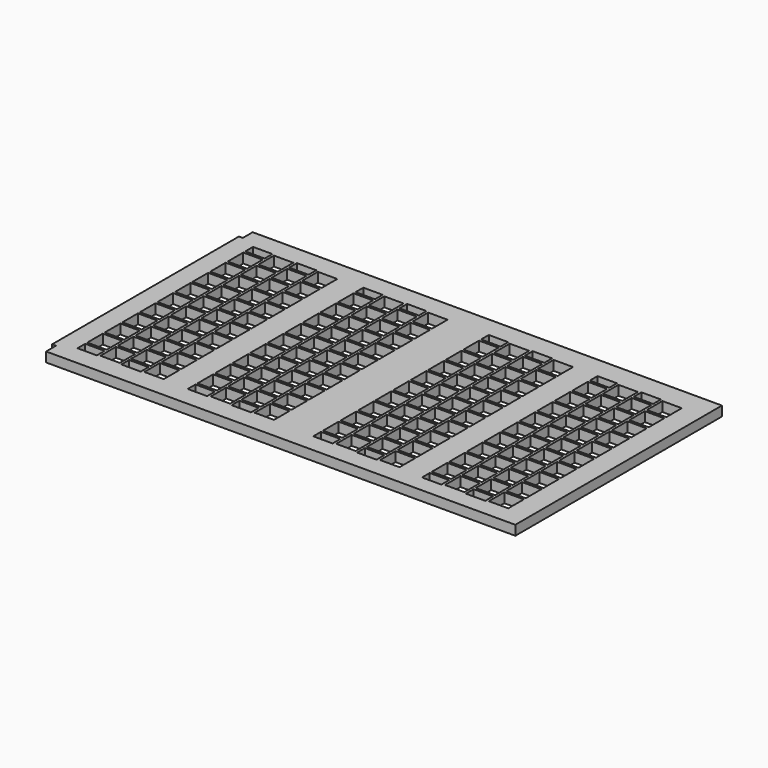
from build123d import *

# Parameters (mm, degrees)
F0_W     = 50
F0_H     = 25
F0_H_2   = 50
F1_DEPTH = 25
F2_DEPTH = 25


with BuildPart() as f1:
    # F0 (on Top) → F1 (new body)
    with BuildSketch(Plane.XY):
        Polygon((-653.877883, 275.877323), (-1863.877883, 275.877323), (-1863.877883, 243.877323), (-1873.877883, 243.877323), (-1873.877883, -358.122677), (-1863.877883, -358.122677), (-1863.877883, -390.122677), (-653.877883, -390.122677), align=None)
        with Locations((-1798.325085, -327.204223)):
            Rectangle(F0_W, F0_H, mode=Mode.SUBTRACT)
        with Locations((-1741.725085, -311.404223)):
            Rectangle(F0_W, F0_H_2, mode=Mode.SUBTRACT)
        with Locations((-1685.125085, -327.204223)):
            Rectangle(F0_W, F0_H, mode=Mode.SUBTRACT)
        with Locations((-1628.525085, -311.404223)):
            Rectangle(F0_W, F0_H_2, mode=Mode.SUBTRACT)
        with Locations((-1798.325085, -283.104223)):
            Rectangle(F0_W, F0_H_2, mode=Mode.SUBTRACT)
        with Locations((-1798.325085, -226.504223)):
            Rectangle(F0_W, F0_H_2, mode=Mode.SUBTRACT)
        with Locations((-1741.725085, -254.804223)):
            Rectangle(F0_W, F0_H_2, mode=Mode.SUBTRACT)
        with Locations((-1685.125085, -283.104223)):
            Rectangle(F0_W, F0_H_2, mode=Mode.SUBTRACT)
        with Locations((-1685.125085, -226.504223)):
            Rectangle(F0_W, F0_H_2, mode=Mode.SUBTRACT)
        with Locations((-1628.525085, -254.804223)):
            Rectangle(F0_W, F0_H_2, mode=Mode.SUBTRACT)
        with Locations((-1513.902973, -327.204223)):
            Rectangle(F0_W, F0_H, mode=Mode.SUBTRACT)
        with Locations((-1457.302973, -311.404223)):
            Rectangle(F0_W, F0_H_2, mode=Mode.SUBTRACT)
        with Locations((-1400.702973, -327.204223)):
            Rectangle(F0_W, F0_H, mode=Mode.SUBTRACT)
        with Locations((-1344.102973, -311.404223)):
            Rectangle(F0_W, F0_H_2, mode=Mode.SUBTRACT)
        with Locations((-1513.902973, -283.104223)):
            Rectangle(F0_W, F0_H_2, mode=Mode.SUBTRACT)
        with Locations((-1513.902973, -226.504223)):
            Rectangle(F0_W, F0_H_2, mode=Mode.SUBTRACT)
        with Locations((-1457.302973, -254.804223)):
            Rectangle(F0_W, F0_H_2, mode=Mode.SUBTRACT)
        with Locations((-1400.702973, -283.104223)):
            Rectangle(F0_W, F0_H_2, mode=Mode.SUBTRACT)
        with Locations((-1344.102973, -254.804223)):
            Rectangle(F0_W, F0_H_2, mode=Mode.SUBTRACT)
        with Locations((-1400.702973, -226.504223)):
            Rectangle(F0_W, F0_H_2, mode=Mode.SUBTRACT)
        with Locations((-1741.725085, -198.204223)):
            Rectangle(F0_W, F0_H_2, mode=Mode.SUBTRACT)
        with Locations((-1798.325085, -169.904223)):
            Rectangle(F0_W, F0_H_2, mode=Mode.SUBTRACT)
        with Locations((-1741.725085, -141.604223)):
            Rectangle(F0_W, F0_H_2, mode=Mode.SUBTRACT)
        with Locations((-1628.525085, -198.204223)):
            Rectangle(F0_W, F0_H_2, mode=Mode.SUBTRACT)
        with Locations((-1685.125085, -169.904223)):
            Rectangle(F0_W, F0_H_2, mode=Mode.SUBTRACT)
        with Locations((-1628.525085, -141.604223)):
            Rectangle(F0_W, F0_H_2, mode=Mode.SUBTRACT)
        with Locations((-1798.325085, -113.304223)):
            Rectangle(F0_W, F0_H_2, mode=Mode.SUBTRACT)
        with Locations((-1741.725085, -85.004223)):
            Rectangle(F0_W, F0_H_2, mode=Mode.SUBTRACT)
        with Locations((-1685.125085, -113.304223)):
            Rectangle(F0_W, F0_H_2, mode=Mode.SUBTRACT)
        with Locations((-1628.525085, -85.004223)):
            Rectangle(F0_W, F0_H_2, mode=Mode.SUBTRACT)
        with Locations((-1457.302973, -198.204223)):
            Rectangle(F0_W, F0_H_2, mode=Mode.SUBTRACT)
        with Locations((-1513.902973, -169.904223)):
            Rectangle(F0_W, F0_H_2, mode=Mode.SUBTRACT)
        with Locations((-1457.302973, -141.604223)):
            Rectangle(F0_W, F0_H_2, mode=Mode.SUBTRACT)
        with Locations((-1344.102973, -198.204223)):
            Rectangle(F0_W, F0_H_2, mode=Mode.SUBTRACT)
        with Locations((-1400.702973, -169.904223)):
            Rectangle(F0_W, F0_H_2, mode=Mode.SUBTRACT)
        with Locations((-1344.102973, -141.604223)):
            Rectangle(F0_W, F0_H_2, mode=Mode.SUBTRACT)
        with Locations((-1513.902973, -113.304223)):
            Rectangle(F0_W, F0_H_2, mode=Mode.SUBTRACT)
        with Locations((-1457.302973, -85.004223)):
            Rectangle(F0_W, F0_H_2, mode=Mode.SUBTRACT)
        with Locations((-1400.702973, -113.304223)):
            Rectangle(F0_W, F0_H_2, mode=Mode.SUBTRACT)
        with Locations((-1344.102973, -85.004223)):
            Rectangle(F0_W, F0_H_2, mode=Mode.SUBTRACT)
        with Locations((-1187.688689, -330.504216)):
            Rectangle(F0_W, F0_H, mode=Mode.SUBTRACT)
        with Locations((-1131.088689, -314.704216)):
            Rectangle(F0_W, F0_H_2, mode=Mode.SUBTRACT)
        with Locations((-1074.488689, -330.504216)):
            Rectangle(F0_W, F0_H, mode=Mode.SUBTRACT)
        with Locations((-1017.888689, -314.704216)):
            Rectangle(F0_W, F0_H_2, mode=Mode.SUBTRACT)
        with Locations((-1187.688689, -286.404216)):
            Rectangle(F0_W, F0_H_2, mode=Mode.SUBTRACT)
        with Locations((-1187.688689, -229.804216)):
            Rectangle(F0_W, F0_H_2, mode=Mode.SUBTRACT)
        with Locations((-1131.088689, -258.104216)):
            Rectangle(F0_W, F0_H_2, mode=Mode.SUBTRACT)
        with Locations((-1074.488689, -286.404216)):
            Rectangle(F0_W, F0_H_2, mode=Mode.SUBTRACT)
        with Locations((-1074.488689, -229.804216)):
            Rectangle(F0_W, F0_H_2, mode=Mode.SUBTRACT)
        with Locations((-1017.888689, -258.104216)):
            Rectangle(F0_W, F0_H_2, mode=Mode.SUBTRACT)
        with Locations((-904.594402, -333.804078)):
            Rectangle(F0_W, F0_H, mode=Mode.SUBTRACT)
        with Locations((-847.994402, -318.004078)):
            Rectangle(F0_W, F0_H_2, mode=Mode.SUBTRACT)
        with Locations((-791.394402, -333.804078)):
            Rectangle(F0_W, F0_H, mode=Mode.SUBTRACT)
        with Locations((-734.794402, -318.004078)):
            Rectangle(F0_W, F0_H_2, mode=Mode.SUBTRACT)
        with Locations((-904.594402, -289.704078)):
            Rectangle(F0_W, F0_H_2, mode=Mode.SUBTRACT)
        with Locations((-904.594402, -233.104078)):
            Rectangle(F0_W, F0_H_2, mode=Mode.SUBTRACT)
        with Locations((-847.994402, -261.404078)):
            Rectangle(F0_W, F0_H_2, mode=Mode.SUBTRACT)
        with Locations((-791.394402, -289.704078)):
            Rectangle(F0_W, F0_H_2, mode=Mode.SUBTRACT)
        with Locations((-734.794402, -261.404078)):
            Rectangle(F0_W, F0_H_2, mode=Mode.SUBTRACT)
        with Locations((-791.394402, -233.104078)):
            Rectangle(F0_W, F0_H_2, mode=Mode.SUBTRACT)
        with Locations((-1131.088689, -201.504216)):
            Rectangle(F0_W, F0_H_2, mode=Mode.SUBTRACT)
        with Locations((-1187.688689, -173.204216)):
            Rectangle(F0_W, F0_H_2, mode=Mode.SUBTRACT)
        with Locations((-1131.088689, -144.904216)):
            Rectangle(F0_W, F0_H_2, mode=Mode.SUBTRACT)
        with Locations((-1017.888689, -201.504216)):
            Rectangle(F0_W, F0_H_2, mode=Mode.SUBTRACT)
        with Locations((-1074.488689, -173.204216)):
            Rectangle(F0_W, F0_H_2, mode=Mode.SUBTRACT)
        with Locations((-1017.888689, -144.904216)):
            Rectangle(F0_W, F0_H_2, mode=Mode.SUBTRACT)
        with Locations((-1187.688689, -116.604216)):
            Rectangle(F0_W, F0_H_2, mode=Mode.SUBTRACT)
        Polygon((-1212.688689, -85.004216), (-1212.688689, -60.004216), (-1212.688689, -35.004216), (-1162.688689, -35.004216), (-1162.688689, -60.004216), (-1162.688689, -85.004216), align=None, mode=Mode.SUBTRACT)
        with Locations((-1131.088689, -88.304216)):
            Rectangle(F0_W, F0_H_2, mode=Mode.SUBTRACT)
        with Locations((-1074.488689, -116.604216)):
            Rectangle(F0_W, F0_H_2, mode=Mode.SUBTRACT)
        Polygon((-1099.488689, -85.004216), (-1099.488689, -60.004216), (-1099.488689, -35.004216), (-1049.488689, -35.004216), (-1049.488689, -60.004216), (-1049.488689, -85.004216), align=None, mode=Mode.SUBTRACT)
        with Locations((-1017.888689, -88.304216)):
            Rectangle(F0_W, F0_H_2, mode=Mode.SUBTRACT)
        with Locations((-847.994402, -204.804078)):
            Rectangle(F0_W, F0_H_2, mode=Mode.SUBTRACT)
        with Locations((-904.594402, -176.504078)):
            Rectangle(F0_W, F0_H_2, mode=Mode.SUBTRACT)
        with Locations((-847.994402, -148.204078)):
            Rectangle(F0_W, F0_H_2, mode=Mode.SUBTRACT)
        with Locations((-734.794402, -204.804078)):
            Rectangle(F0_W, F0_H_2, mode=Mode.SUBTRACT)
        with Locations((-791.394402, -176.504078)):
            Rectangle(F0_W, F0_H_2, mode=Mode.SUBTRACT)
        with Locations((-734.794402, -148.204078)):
            Rectangle(F0_W, F0_H_2, mode=Mode.SUBTRACT)
        with Locations((-904.594402, -119.904078)):
            Rectangle(F0_W, F0_H_2, mode=Mode.SUBTRACT)
        Polygon((-929.594402, -88.304078), (-929.594402, -63.304078), (-929.594402, -38.304078), (-879.594402, -38.304078), (-879.594402, -63.304078), (-879.594402, -88.304078), align=None, mode=Mode.SUBTRACT)
        with Locations((-847.994402, -91.604078)):
            Rectangle(F0_W, F0_H_2, mode=Mode.SUBTRACT)
        with Locations((-791.394402, -119.904078)):
            Rectangle(F0_W, F0_H_2, mode=Mode.SUBTRACT)
        with Locations((-734.794402, -91.604078)):
            Rectangle(F0_W, F0_H_2, mode=Mode.SUBTRACT)
        Polygon((-816.394402, -88.304078), (-816.394402, -63.304078), (-816.394402, -38.304078), (-766.394402, -38.304078), (-766.394402, -63.304078), (-766.394402, -88.304078), align=None, mode=Mode.SUBTRACT)
        Polygon((-1823.325085, -81.704223), (-1823.325085, -56.704223), (-1823.325085, -31.704223), (-1773.325085, -31.704223), (-1773.325085, -56.704223), (-1773.325085, -81.704223), align=None, mode=Mode.SUBTRACT)
        with Locations((-1741.725085, -28.404223)):
            Rectangle(F0_W, F0_H_2, mode=Mode.SUBTRACT)
        with Locations((-1798.325085, -0.104223)):
            Rectangle(F0_W, F0_H_2, mode=Mode.SUBTRACT)
        Polygon((-1710.125085, -81.704223), (-1710.125085, -56.704223), (-1710.125085, -31.704223), (-1660.125085, -31.704223), (-1660.125085, -56.704223), (-1660.125085, -81.704223), align=None, mode=Mode.SUBTRACT)
        with Locations((-1628.525085, -28.404223)):
            Rectangle(F0_W, F0_H_2, mode=Mode.SUBTRACT)
        with Locations((-1685.125085, -0.104223)):
            Rectangle(F0_W, F0_H_2, mode=Mode.SUBTRACT)
        with Locations((-1798.325085, 56.495777)):
            Rectangle(F0_W, F0_H_2, mode=Mode.SUBTRACT)
        with Locations((-1741.725085, 28.195777)):
            Rectangle(F0_W, F0_H_2, mode=Mode.SUBTRACT)
        with Locations((-1741.725085, 84.795777)):
            Rectangle(F0_W, F0_H_2, mode=Mode.SUBTRACT)
        with Locations((-1685.125085, 56.495777)):
            Rectangle(F0_W, F0_H_2, mode=Mode.SUBTRACT)
        with Locations((-1628.525085, 28.195777)):
            Rectangle(F0_W, F0_H_2, mode=Mode.SUBTRACT)
        with Locations((-1628.525085, 84.795777)):
            Rectangle(F0_W, F0_H_2, mode=Mode.SUBTRACT)
        Polygon((-1538.902973, -81.704223), (-1538.902973, -56.704223), (-1538.902973, -31.704223), (-1488.902973, -31.704223), (-1488.902973, -56.704223), (-1488.902973, -81.704223), align=None, mode=Mode.SUBTRACT)
        with Locations((-1457.302973, -28.404223)):
            Rectangle(F0_W, F0_H_2, mode=Mode.SUBTRACT)
        with Locations((-1513.902973, -0.104223)):
            Rectangle(F0_W, F0_H_2, mode=Mode.SUBTRACT)
        Polygon((-1425.702973, -81.704223), (-1425.702973, -56.704223), (-1425.702973, -31.704223), (-1375.702973, -31.704223), (-1375.702973, -56.704223), (-1375.702973, -81.704223), align=None, mode=Mode.SUBTRACT)
        with Locations((-1344.102973, -28.404223)):
            Rectangle(F0_W, F0_H_2, mode=Mode.SUBTRACT)
        with Locations((-1400.702973, -0.104223)):
            Rectangle(F0_W, F0_H_2, mode=Mode.SUBTRACT)
        with Locations((-1513.902973, 56.495777)):
            Rectangle(F0_W, F0_H_2, mode=Mode.SUBTRACT)
        with Locations((-1457.302973, 28.195777)):
            Rectangle(F0_W, F0_H_2, mode=Mode.SUBTRACT)
        with Locations((-1457.302973, 84.795777)):
            Rectangle(F0_W, F0_H_2, mode=Mode.SUBTRACT)
        with Locations((-1344.102973, 28.195777)):
            Rectangle(F0_W, F0_H_2, mode=Mode.SUBTRACT)
        with Locations((-1400.702973, 56.495777)):
            Rectangle(F0_W, F0_H_2, mode=Mode.SUBTRACT)
        with Locations((-1344.102973, 84.795777)):
            Rectangle(F0_W, F0_H_2, mode=Mode.SUBTRACT)
        with Locations((-1798.325085, 113.095777)):
            Rectangle(F0_W, F0_H_2, mode=Mode.SUBTRACT)
        with Locations((-1741.725085, 141.395777)):
            Rectangle(F0_W, F0_H_2, mode=Mode.SUBTRACT)
        with Locations((-1798.325085, 169.695777)):
            Rectangle(F0_W, F0_H_2, mode=Mode.SUBTRACT)
        with Locations((-1685.125085, 113.095777)):
            Rectangle(F0_W, F0_H_2, mode=Mode.SUBTRACT)
        with Locations((-1628.525085, 141.395777)):
            Rectangle(F0_W, F0_H_2, mode=Mode.SUBTRACT)
        with Locations((-1685.125085, 169.695777)):
            Rectangle(F0_W, F0_H_2, mode=Mode.SUBTRACT)
        with Locations((-1798.325085, 213.795777)):
            Rectangle(F0_W, F0_H, mode=Mode.SUBTRACT)
        with Locations((-1741.725085, 197.995777)):
            Rectangle(F0_W, F0_H_2, mode=Mode.SUBTRACT)
        with Locations((-1685.125085, 213.795777)):
            Rectangle(F0_W, F0_H, mode=Mode.SUBTRACT)
        with Locations((-1628.525085, 197.995777)):
            Rectangle(F0_W, F0_H_2, mode=Mode.SUBTRACT)
        with Locations((-1513.902973, 113.095777)):
            Rectangle(F0_W, F0_H_2, mode=Mode.SUBTRACT)
        with Locations((-1457.302973, 141.395777)):
            Rectangle(F0_W, F0_H_2, mode=Mode.SUBTRACT)
        with Locations((-1513.902973, 169.695777)):
            Rectangle(F0_W, F0_H_2, mode=Mode.SUBTRACT)
        with Locations((-1400.702973, 113.095777)):
            Rectangle(F0_W, F0_H_2, mode=Mode.SUBTRACT)
        with Locations((-1344.102973, 141.395777)):
            Rectangle(F0_W, F0_H_2, mode=Mode.SUBTRACT)
        with Locations((-1400.702973, 169.695777)):
            Rectangle(F0_W, F0_H_2, mode=Mode.SUBTRACT)
        Polygon((-1488.902973, 201.295777), (-1538.902973, 201.295777), (-1538.902973, 226.295777), (-1488.902973, 226.184404), align=None, mode=Mode.SUBTRACT)
        with Locations((-1457.302973, 197.995777)):
            Rectangle(F0_W, F0_H_2, mode=Mode.SUBTRACT)
        with Locations((-1344.102973, 197.995777)):
            Rectangle(F0_W, F0_H_2, mode=Mode.SUBTRACT)
        Polygon((-1375.702973, 201.295777), (-1425.702973, 201.295777), (-1425.702973, 226.043628), (-1375.702973, 225.932255), align=None, mode=Mode.SUBTRACT)
        with Locations((-1131.088689, -31.704216)):
            Rectangle(F0_W, F0_H_2, mode=Mode.SUBTRACT)
        with Locations((-1187.688689, -3.404216)):
            Rectangle(F0_W, F0_H_2, mode=Mode.SUBTRACT)
        with Locations((-1131.088689, 24.895784)):
            Rectangle(F0_W, F0_H_2, mode=Mode.SUBTRACT)
        with Locations((-1017.888689, -31.704216)):
            Rectangle(F0_W, F0_H_2, mode=Mode.SUBTRACT)
        with Locations((-1074.488689, -3.404216)):
            Rectangle(F0_W, F0_H_2, mode=Mode.SUBTRACT)
        with Locations((-1017.888689, 24.895784)):
            Rectangle(F0_W, F0_H_2, mode=Mode.SUBTRACT)
        with Locations((-1187.688689, 53.195784)):
            Rectangle(F0_W, F0_H_2, mode=Mode.SUBTRACT)
        with Locations((-1131.088689, 81.495784)):
            Rectangle(F0_W, F0_H_2, mode=Mode.SUBTRACT)
        with Locations((-1074.488689, 53.195784)):
            Rectangle(F0_W, F0_H_2, mode=Mode.SUBTRACT)
        with Locations((-1017.888689, 81.495784)):
            Rectangle(F0_W, F0_H_2, mode=Mode.SUBTRACT)
        with Locations((-847.994402, -35.004078)):
            Rectangle(F0_W, F0_H_2, mode=Mode.SUBTRACT)
        with Locations((-904.594402, -6.704078)):
            Rectangle(F0_W, F0_H_2, mode=Mode.SUBTRACT)
        with Locations((-847.994402, 21.595922)):
            Rectangle(F0_W, F0_H_2, mode=Mode.SUBTRACT)
        with Locations((-734.794402, -35.004078)):
            Rectangle(F0_W, F0_H_2, mode=Mode.SUBTRACT)
        with Locations((-791.394402, -6.704078)):
            Rectangle(F0_W, F0_H_2, mode=Mode.SUBTRACT)
        with Locations((-734.794402, 21.595922)):
            Rectangle(F0_W, F0_H_2, mode=Mode.SUBTRACT)
        with Locations((-904.594402, 49.895922)):
            Rectangle(F0_W, F0_H_2, mode=Mode.SUBTRACT)
        with Locations((-904.594402, 106.495922)):
            Rectangle(F0_W, F0_H_2, mode=Mode.SUBTRACT)
        with Locations((-847.994402, 78.195922)):
            Rectangle(F0_W, F0_H_2, mode=Mode.SUBTRACT)
        with Locations((-791.394402, 49.895922)):
            Rectangle(F0_W, F0_H_2, mode=Mode.SUBTRACT)
        with Locations((-734.794402, 78.195922)):
            Rectangle(F0_W, F0_H_2, mode=Mode.SUBTRACT)
        with Locations((-791.394402, 106.495922)):
            Rectangle(F0_W, F0_H_2, mode=Mode.SUBTRACT)
        with Locations((-1187.688689, 109.795784)):
            Rectangle(F0_W, F0_H_2, mode=Mode.SUBTRACT)
        with Locations((-1131.088689, 138.095784)):
            Rectangle(F0_W, F0_H_2, mode=Mode.SUBTRACT)
        with Locations((-1187.688689, 166.395784)):
            Rectangle(F0_W, F0_H_2, mode=Mode.SUBTRACT)
        with Locations((-1074.488689, 109.795784)):
            Rectangle(F0_W, F0_H_2, mode=Mode.SUBTRACT)
        with Locations((-1017.888689, 138.095784)):
            Rectangle(F0_W, F0_H_2, mode=Mode.SUBTRACT)
        with Locations((-1074.488689, 166.395784)):
            Rectangle(F0_W, F0_H_2, mode=Mode.SUBTRACT)
        Polygon((-1162.688689, 197.995784), (-1212.688689, 197.995784), (-1212.688689, 222.995784), (-1162.688689, 222.884411), align=None, mode=Mode.SUBTRACT)
        with Locations((-1131.088689, 194.695784)):
            Rectangle(F0_W, F0_H_2, mode=Mode.SUBTRACT)
        with Locations((-1074.488689, 210.495784)):
            Rectangle(F0_W, F0_H, mode=Mode.SUBTRACT)
        with Locations((-1017.888689, 194.695784)):
            Rectangle(F0_W, F0_H_2, mode=Mode.SUBTRACT)
        with Locations((-847.994402, 134.795922)):
            Rectangle(F0_W, F0_H_2, mode=Mode.SUBTRACT)
        with Locations((-904.594402, 163.095922)):
            Rectangle(F0_W, F0_H_2, mode=Mode.SUBTRACT)
        with Locations((-847.994402, 191.395922)):
            Rectangle(F0_W, F0_H_2, mode=Mode.SUBTRACT)
        with Locations((-734.794402, 134.795922)):
            Rectangle(F0_W, F0_H_2, mode=Mode.SUBTRACT)
        with Locations((-791.394402, 163.095922)):
            Rectangle(F0_W, F0_H_2, mode=Mode.SUBTRACT)
        with Locations((-734.794402, 191.395922)):
            Rectangle(F0_W, F0_H_2, mode=Mode.SUBTRACT)
        Polygon((-879.594402, 194.695922), (-929.594402, 194.695922), (-929.594402, 219.695922), (-879.594402, 219.584549), align=None, mode=Mode.SUBTRACT)
        with Locations((-791.394402, 207.195922)):
            Rectangle(F0_W, F0_H, mode=Mode.SUBTRACT)
    extrude(amount=F1_DEPTH)

    # F0 (on Top) → F2 (join)
    with BuildSketch(Plane.XY):
        Polygon((-653.877883, 275.877323), (-1863.877883, 275.877323), (-1863.877883, 243.877323), (-1873.877883, 243.877323), (-1873.877883, -358.122677), (-1863.877883, -358.122677), (-1863.877883, -390.122677), (-653.877883, -390.122677), align=None)
        with Locations((-1798.325085, -327.204223)):
            Rectangle(F0_W, F0_H, mode=Mode.SUBTRACT)
        with Locations((-1741.725085, -311.404223)):
            Rectangle(F0_W, F0_H_2, mode=Mode.SUBTRACT)
        with Locations((-1685.125085, -327.204223)):
            Rectangle(F0_W, F0_H, mode=Mode.SUBTRACT)
        with Locations((-1628.525085, -311.404223)):
            Rectangle(F0_W, F0_H_2, mode=Mode.SUBTRACT)
        with Locations((-1798.325085, -283.104223)):
            Rectangle(F0_W, F0_H_2, mode=Mode.SUBTRACT)
        with Locations((-1798.325085, -226.504223)):
            Rectangle(F0_W, F0_H_2, mode=Mode.SUBTRACT)
        with Locations((-1741.725085, -254.804223)):
            Rectangle(F0_W, F0_H_2, mode=Mode.SUBTRACT)
        with Locations((-1685.125085, -283.104223)):
            Rectangle(F0_W, F0_H_2, mode=Mode.SUBTRACT)
        with Locations((-1685.125085, -226.504223)):
            Rectangle(F0_W, F0_H_2, mode=Mode.SUBTRACT)
        with Locations((-1628.525085, -254.804223)):
            Rectangle(F0_W, F0_H_2, mode=Mode.SUBTRACT)
        with Locations((-1513.902973, -327.204223)):
            Rectangle(F0_W, F0_H, mode=Mode.SUBTRACT)
        with Locations((-1457.302973, -311.404223)):
            Rectangle(F0_W, F0_H_2, mode=Mode.SUBTRACT)
        with Locations((-1400.702973, -327.204223)):
            Rectangle(F0_W, F0_H, mode=Mode.SUBTRACT)
        with Locations((-1344.102973, -311.404223)):
            Rectangle(F0_W, F0_H_2, mode=Mode.SUBTRACT)
        with Locations((-1513.902973, -283.104223)):
            Rectangle(F0_W, F0_H_2, mode=Mode.SUBTRACT)
        with Locations((-1513.902973, -226.504223)):
            Rectangle(F0_W, F0_H_2, mode=Mode.SUBTRACT)
        with Locations((-1457.302973, -254.804223)):
            Rectangle(F0_W, F0_H_2, mode=Mode.SUBTRACT)
        with Locations((-1400.702973, -283.104223)):
            Rectangle(F0_W, F0_H_2, mode=Mode.SUBTRACT)
        with Locations((-1344.102973, -254.804223)):
            Rectangle(F0_W, F0_H_2, mode=Mode.SUBTRACT)
        with Locations((-1400.702973, -226.504223)):
            Rectangle(F0_W, F0_H_2, mode=Mode.SUBTRACT)
        with Locations((-1741.725085, -198.204223)):
            Rectangle(F0_W, F0_H_2, mode=Mode.SUBTRACT)
        with Locations((-1798.325085, -169.904223)):
            Rectangle(F0_W, F0_H_2, mode=Mode.SUBTRACT)
        with Locations((-1741.725085, -141.604223)):
            Rectangle(F0_W, F0_H_2, mode=Mode.SUBTRACT)
        with Locations((-1628.525085, -198.204223)):
            Rectangle(F0_W, F0_H_2, mode=Mode.SUBTRACT)
        with Locations((-1685.125085, -169.904223)):
            Rectangle(F0_W, F0_H_2, mode=Mode.SUBTRACT)
        with Locations((-1628.525085, -141.604223)):
            Rectangle(F0_W, F0_H_2, mode=Mode.SUBTRACT)
        with Locations((-1798.325085, -113.304223)):
            Rectangle(F0_W, F0_H_2, mode=Mode.SUBTRACT)
        with Locations((-1741.725085, -85.004223)):
            Rectangle(F0_W, F0_H_2, mode=Mode.SUBTRACT)
        with Locations((-1685.125085, -113.304223)):
            Rectangle(F0_W, F0_H_2, mode=Mode.SUBTRACT)
        with Locations((-1628.525085, -85.004223)):
            Rectangle(F0_W, F0_H_2, mode=Mode.SUBTRACT)
        with Locations((-1457.302973, -198.204223)):
            Rectangle(F0_W, F0_H_2, mode=Mode.SUBTRACT)
        with Locations((-1513.902973, -169.904223)):
            Rectangle(F0_W, F0_H_2, mode=Mode.SUBTRACT)
        with Locations((-1457.302973, -141.604223)):
            Rectangle(F0_W, F0_H_2, mode=Mode.SUBTRACT)
        with Locations((-1344.102973, -198.204223)):
            Rectangle(F0_W, F0_H_2, mode=Mode.SUBTRACT)
        with Locations((-1400.702973, -169.904223)):
            Rectangle(F0_W, F0_H_2, mode=Mode.SUBTRACT)
        with Locations((-1344.102973, -141.604223)):
            Rectangle(F0_W, F0_H_2, mode=Mode.SUBTRACT)
        with Locations((-1513.902973, -113.304223)):
            Rectangle(F0_W, F0_H_2, mode=Mode.SUBTRACT)
        with Locations((-1457.302973, -85.004223)):
            Rectangle(F0_W, F0_H_2, mode=Mode.SUBTRACT)
        with Locations((-1400.702973, -113.304223)):
            Rectangle(F0_W, F0_H_2, mode=Mode.SUBTRACT)
        with Locations((-1344.102973, -85.004223)):
            Rectangle(F0_W, F0_H_2, mode=Mode.SUBTRACT)
        with Locations((-1187.688689, -330.504216)):
            Rectangle(F0_W, F0_H, mode=Mode.SUBTRACT)
        with Locations((-1131.088689, -314.704216)):
            Rectangle(F0_W, F0_H_2, mode=Mode.SUBTRACT)
        with Locations((-1074.488689, -330.504216)):
            Rectangle(F0_W, F0_H, mode=Mode.SUBTRACT)
        with Locations((-1017.888689, -314.704216)):
            Rectangle(F0_W, F0_H_2, mode=Mode.SUBTRACT)
        with Locations((-1187.688689, -286.404216)):
            Rectangle(F0_W, F0_H_2, mode=Mode.SUBTRACT)
        with Locations((-1187.688689, -229.804216)):
            Rectangle(F0_W, F0_H_2, mode=Mode.SUBTRACT)
        with Locations((-1131.088689, -258.104216)):
            Rectangle(F0_W, F0_H_2, mode=Mode.SUBTRACT)
        with Locations((-1074.488689, -286.404216)):
            Rectangle(F0_W, F0_H_2, mode=Mode.SUBTRACT)
        with Locations((-1074.488689, -229.804216)):
            Rectangle(F0_W, F0_H_2, mode=Mode.SUBTRACT)
        with Locations((-1017.888689, -258.104216)):
            Rectangle(F0_W, F0_H_2, mode=Mode.SUBTRACT)
        with Locations((-904.594402, -333.804078)):
            Rectangle(F0_W, F0_H, mode=Mode.SUBTRACT)
        with Locations((-847.994402, -318.004078)):
            Rectangle(F0_W, F0_H_2, mode=Mode.SUBTRACT)
        with Locations((-791.394402, -333.804078)):
            Rectangle(F0_W, F0_H, mode=Mode.SUBTRACT)
        with Locations((-734.794402, -318.004078)):
            Rectangle(F0_W, F0_H_2, mode=Mode.SUBTRACT)
        with Locations((-904.594402, -289.704078)):
            Rectangle(F0_W, F0_H_2, mode=Mode.SUBTRACT)
        with Locations((-904.594402, -233.104078)):
            Rectangle(F0_W, F0_H_2, mode=Mode.SUBTRACT)
        with Locations((-847.994402, -261.404078)):
            Rectangle(F0_W, F0_H_2, mode=Mode.SUBTRACT)
        with Locations((-791.394402, -289.704078)):
            Rectangle(F0_W, F0_H_2, mode=Mode.SUBTRACT)
        with Locations((-734.794402, -261.404078)):
            Rectangle(F0_W, F0_H_2, mode=Mode.SUBTRACT)
        with Locations((-791.394402, -233.104078)):
            Rectangle(F0_W, F0_H_2, mode=Mode.SUBTRACT)
        with Locations((-1131.088689, -201.504216)):
            Rectangle(F0_W, F0_H_2, mode=Mode.SUBTRACT)
        with Locations((-1187.688689, -173.204216)):
            Rectangle(F0_W, F0_H_2, mode=Mode.SUBTRACT)
        with Locations((-1131.088689, -144.904216)):
            Rectangle(F0_W, F0_H_2, mode=Mode.SUBTRACT)
        with Locations((-1017.888689, -201.504216)):
            Rectangle(F0_W, F0_H_2, mode=Mode.SUBTRACT)
        with Locations((-1074.488689, -173.204216)):
            Rectangle(F0_W, F0_H_2, mode=Mode.SUBTRACT)
        with Locations((-1017.888689, -144.904216)):
            Rectangle(F0_W, F0_H_2, mode=Mode.SUBTRACT)
        with Locations((-1187.688689, -116.604216)):
            Rectangle(F0_W, F0_H_2, mode=Mode.SUBTRACT)
        Polygon((-1212.688689, -85.004216), (-1212.688689, -60.004216), (-1212.688689, -35.004216), (-1162.688689, -35.004216), (-1162.688689, -60.004216), (-1162.688689, -85.004216), align=None, mode=Mode.SUBTRACT)
        with Locations((-1131.088689, -88.304216)):
            Rectangle(F0_W, F0_H_2, mode=Mode.SUBTRACT)
        with Locations((-1074.488689, -116.604216)):
            Rectangle(F0_W, F0_H_2, mode=Mode.SUBTRACT)
        Polygon((-1099.488689, -85.004216), (-1099.488689, -60.004216), (-1099.488689, -35.004216), (-1049.488689, -35.004216), (-1049.488689, -60.004216), (-1049.488689, -85.004216), align=None, mode=Mode.SUBTRACT)
        with Locations((-1017.888689, -88.304216)):
            Rectangle(F0_W, F0_H_2, mode=Mode.SUBTRACT)
        with Locations((-847.994402, -204.804078)):
            Rectangle(F0_W, F0_H_2, mode=Mode.SUBTRACT)
        with Locations((-904.594402, -176.504078)):
            Rectangle(F0_W, F0_H_2, mode=Mode.SUBTRACT)
        with Locations((-847.994402, -148.204078)):
            Rectangle(F0_W, F0_H_2, mode=Mode.SUBTRACT)
        with Locations((-734.794402, -204.804078)):
            Rectangle(F0_W, F0_H_2, mode=Mode.SUBTRACT)
        with Locations((-791.394402, -176.504078)):
            Rectangle(F0_W, F0_H_2, mode=Mode.SUBTRACT)
        with Locations((-734.794402, -148.204078)):
            Rectangle(F0_W, F0_H_2, mode=Mode.SUBTRACT)
        with Locations((-904.594402, -119.904078)):
            Rectangle(F0_W, F0_H_2, mode=Mode.SUBTRACT)
        Polygon((-929.594402, -88.304078), (-929.594402, -63.304078), (-929.594402, -38.304078), (-879.594402, -38.304078), (-879.594402, -63.304078), (-879.594402, -88.304078), align=None, mode=Mode.SUBTRACT)
        with Locations((-847.994402, -91.604078)):
            Rectangle(F0_W, F0_H_2, mode=Mode.SUBTRACT)
        with Locations((-791.394402, -119.904078)):
            Rectangle(F0_W, F0_H_2, mode=Mode.SUBTRACT)
        with Locations((-734.794402, -91.604078)):
            Rectangle(F0_W, F0_H_2, mode=Mode.SUBTRACT)
        Polygon((-816.394402, -88.304078), (-816.394402, -63.304078), (-816.394402, -38.304078), (-766.394402, -38.304078), (-766.394402, -63.304078), (-766.394402, -88.304078), align=None, mode=Mode.SUBTRACT)
        Polygon((-1823.325085, -81.704223), (-1823.325085, -56.704223), (-1823.325085, -31.704223), (-1773.325085, -31.704223), (-1773.325085, -56.704223), (-1773.325085, -81.704223), align=None, mode=Mode.SUBTRACT)
        with Locations((-1741.725085, -28.404223)):
            Rectangle(F0_W, F0_H_2, mode=Mode.SUBTRACT)
        with Locations((-1798.325085, -0.104223)):
            Rectangle(F0_W, F0_H_2, mode=Mode.SUBTRACT)
        Polygon((-1710.125085, -81.704223), (-1710.125085, -56.704223), (-1710.125085, -31.704223), (-1660.125085, -31.704223), (-1660.125085, -56.704223), (-1660.125085, -81.704223), align=None, mode=Mode.SUBTRACT)
        with Locations((-1628.525085, -28.404223)):
            Rectangle(F0_W, F0_H_2, mode=Mode.SUBTRACT)
        with Locations((-1685.125085, -0.104223)):
            Rectangle(F0_W, F0_H_2, mode=Mode.SUBTRACT)
        with Locations((-1798.325085, 56.495777)):
            Rectangle(F0_W, F0_H_2, mode=Mode.SUBTRACT)
        with Locations((-1741.725085, 28.195777)):
            Rectangle(F0_W, F0_H_2, mode=Mode.SUBTRACT)
        with Locations((-1741.725085, 84.795777)):
            Rectangle(F0_W, F0_H_2, mode=Mode.SUBTRACT)
        with Locations((-1685.125085, 56.495777)):
            Rectangle(F0_W, F0_H_2, mode=Mode.SUBTRACT)
        with Locations((-1628.525085, 28.195777)):
            Rectangle(F0_W, F0_H_2, mode=Mode.SUBTRACT)
        with Locations((-1628.525085, 84.795777)):
            Rectangle(F0_W, F0_H_2, mode=Mode.SUBTRACT)
        Polygon((-1538.902973, -81.704223), (-1538.902973, -56.704223), (-1538.902973, -31.704223), (-1488.902973, -31.704223), (-1488.902973, -56.704223), (-1488.902973, -81.704223), align=None, mode=Mode.SUBTRACT)
        with Locations((-1457.302973, -28.404223)):
            Rectangle(F0_W, F0_H_2, mode=Mode.SUBTRACT)
        with Locations((-1513.902973, -0.104223)):
            Rectangle(F0_W, F0_H_2, mode=Mode.SUBTRACT)
        Polygon((-1425.702973, -81.704223), (-1425.702973, -56.704223), (-1425.702973, -31.704223), (-1375.702973, -31.704223), (-1375.702973, -56.704223), (-1375.702973, -81.704223), align=None, mode=Mode.SUBTRACT)
        with Locations((-1344.102973, -28.404223)):
            Rectangle(F0_W, F0_H_2, mode=Mode.SUBTRACT)
        with Locations((-1400.702973, -0.104223)):
            Rectangle(F0_W, F0_H_2, mode=Mode.SUBTRACT)
        with Locations((-1513.902973, 56.495777)):
            Rectangle(F0_W, F0_H_2, mode=Mode.SUBTRACT)
        with Locations((-1457.302973, 28.195777)):
            Rectangle(F0_W, F0_H_2, mode=Mode.SUBTRACT)
        with Locations((-1457.302973, 84.795777)):
            Rectangle(F0_W, F0_H_2, mode=Mode.SUBTRACT)
        with Locations((-1344.102973, 28.195777)):
            Rectangle(F0_W, F0_H_2, mode=Mode.SUBTRACT)
        with Locations((-1400.702973, 56.495777)):
            Rectangle(F0_W, F0_H_2, mode=Mode.SUBTRACT)
        with Locations((-1344.102973, 84.795777)):
            Rectangle(F0_W, F0_H_2, mode=Mode.SUBTRACT)
        with Locations((-1798.325085, 113.095777)):
            Rectangle(F0_W, F0_H_2, mode=Mode.SUBTRACT)
        with Locations((-1741.725085, 141.395777)):
            Rectangle(F0_W, F0_H_2, mode=Mode.SUBTRACT)
        with Locations((-1798.325085, 169.695777)):
            Rectangle(F0_W, F0_H_2, mode=Mode.SUBTRACT)
        with Locations((-1685.125085, 113.095777)):
            Rectangle(F0_W, F0_H_2, mode=Mode.SUBTRACT)
        with Locations((-1628.525085, 141.395777)):
            Rectangle(F0_W, F0_H_2, mode=Mode.SUBTRACT)
        with Locations((-1685.125085, 169.695777)):
            Rectangle(F0_W, F0_H_2, mode=Mode.SUBTRACT)
        with Locations((-1798.325085, 213.795777)):
            Rectangle(F0_W, F0_H, mode=Mode.SUBTRACT)
        with Locations((-1741.725085, 197.995777)):
            Rectangle(F0_W, F0_H_2, mode=Mode.SUBTRACT)
        with Locations((-1685.125085, 213.795777)):
            Rectangle(F0_W, F0_H, mode=Mode.SUBTRACT)
        with Locations((-1628.525085, 197.995777)):
            Rectangle(F0_W, F0_H_2, mode=Mode.SUBTRACT)
        with Locations((-1513.902973, 113.095777)):
            Rectangle(F0_W, F0_H_2, mode=Mode.SUBTRACT)
        with Locations((-1457.302973, 141.395777)):
            Rectangle(F0_W, F0_H_2, mode=Mode.SUBTRACT)
        with Locations((-1513.902973, 169.695777)):
            Rectangle(F0_W, F0_H_2, mode=Mode.SUBTRACT)
        with Locations((-1400.702973, 113.095777)):
            Rectangle(F0_W, F0_H_2, mode=Mode.SUBTRACT)
        with Locations((-1344.102973, 141.395777)):
            Rectangle(F0_W, F0_H_2, mode=Mode.SUBTRACT)
        with Locations((-1400.702973, 169.695777)):
            Rectangle(F0_W, F0_H_2, mode=Mode.SUBTRACT)
        Polygon((-1488.902973, 201.295777), (-1538.902973, 201.295777), (-1538.902973, 226.295777), (-1488.902973, 226.184404), align=None, mode=Mode.SUBTRACT)
        with Locations((-1457.302973, 197.995777)):
            Rectangle(F0_W, F0_H_2, mode=Mode.SUBTRACT)
        with Locations((-1344.102973, 197.995777)):
            Rectangle(F0_W, F0_H_2, mode=Mode.SUBTRACT)
        Polygon((-1375.702973, 201.295777), (-1425.702973, 201.295777), (-1425.702973, 226.043628), (-1375.702973, 225.932255), align=None, mode=Mode.SUBTRACT)
        with Locations((-1131.088689, -31.704216)):
            Rectangle(F0_W, F0_H_2, mode=Mode.SUBTRACT)
        with Locations((-1187.688689, -3.404216)):
            Rectangle(F0_W, F0_H_2, mode=Mode.SUBTRACT)
        with Locations((-1131.088689, 24.895784)):
            Rectangle(F0_W, F0_H_2, mode=Mode.SUBTRACT)
        with Locations((-1017.888689, -31.704216)):
            Rectangle(F0_W, F0_H_2, mode=Mode.SUBTRACT)
        with Locations((-1074.488689, -3.404216)):
            Rectangle(F0_W, F0_H_2, mode=Mode.SUBTRACT)
        with Locations((-1017.888689, 24.895784)):
            Rectangle(F0_W, F0_H_2, mode=Mode.SUBTRACT)
        with Locations((-1187.688689, 53.195784)):
            Rectangle(F0_W, F0_H_2, mode=Mode.SUBTRACT)
        with Locations((-1131.088689, 81.495784)):
            Rectangle(F0_W, F0_H_2, mode=Mode.SUBTRACT)
        with Locations((-1074.488689, 53.195784)):
            Rectangle(F0_W, F0_H_2, mode=Mode.SUBTRACT)
        with Locations((-1017.888689, 81.495784)):
            Rectangle(F0_W, F0_H_2, mode=Mode.SUBTRACT)
        with Locations((-847.994402, -35.004078)):
            Rectangle(F0_W, F0_H_2, mode=Mode.SUBTRACT)
        with Locations((-904.594402, -6.704078)):
            Rectangle(F0_W, F0_H_2, mode=Mode.SUBTRACT)
        with Locations((-847.994402, 21.595922)):
            Rectangle(F0_W, F0_H_2, mode=Mode.SUBTRACT)
        with Locations((-734.794402, -35.004078)):
            Rectangle(F0_W, F0_H_2, mode=Mode.SUBTRACT)
        with Locations((-791.394402, -6.704078)):
            Rectangle(F0_W, F0_H_2, mode=Mode.SUBTRACT)
        with Locations((-734.794402, 21.595922)):
            Rectangle(F0_W, F0_H_2, mode=Mode.SUBTRACT)
        with Locations((-904.594402, 49.895922)):
            Rectangle(F0_W, F0_H_2, mode=Mode.SUBTRACT)
        with Locations((-904.594402, 106.495922)):
            Rectangle(F0_W, F0_H_2, mode=Mode.SUBTRACT)
        with Locations((-847.994402, 78.195922)):
            Rectangle(F0_W, F0_H_2, mode=Mode.SUBTRACT)
        with Locations((-791.394402, 49.895922)):
            Rectangle(F0_W, F0_H_2, mode=Mode.SUBTRACT)
        with Locations((-734.794402, 78.195922)):
            Rectangle(F0_W, F0_H_2, mode=Mode.SUBTRACT)
        with Locations((-791.394402, 106.495922)):
            Rectangle(F0_W, F0_H_2, mode=Mode.SUBTRACT)
        with Locations((-1187.688689, 109.795784)):
            Rectangle(F0_W, F0_H_2, mode=Mode.SUBTRACT)
        with Locations((-1131.088689, 138.095784)):
            Rectangle(F0_W, F0_H_2, mode=Mode.SUBTRACT)
        with Locations((-1187.688689, 166.395784)):
            Rectangle(F0_W, F0_H_2, mode=Mode.SUBTRACT)
        with Locations((-1074.488689, 109.795784)):
            Rectangle(F0_W, F0_H_2, mode=Mode.SUBTRACT)
        with Locations((-1017.888689, 138.095784)):
            Rectangle(F0_W, F0_H_2, mode=Mode.SUBTRACT)
        with Locations((-1074.488689, 166.395784)):
            Rectangle(F0_W, F0_H_2, mode=Mode.SUBTRACT)
        Polygon((-1162.688689, 197.995784), (-1212.688689, 197.995784), (-1212.688689, 222.995784), (-1162.688689, 222.884411), align=None, mode=Mode.SUBTRACT)
        with Locations((-1131.088689, 194.695784)):
            Rectangle(F0_W, F0_H_2, mode=Mode.SUBTRACT)
        with Locations((-1074.488689, 210.495784)):
            Rectangle(F0_W, F0_H, mode=Mode.SUBTRACT)
        with Locations((-1017.888689, 194.695784)):
            Rectangle(F0_W, F0_H_2, mode=Mode.SUBTRACT)
        with Locations((-847.994402, 134.795922)):
            Rectangle(F0_W, F0_H_2, mode=Mode.SUBTRACT)
        with Locations((-904.594402, 163.095922)):
            Rectangle(F0_W, F0_H_2, mode=Mode.SUBTRACT)
        with Locations((-847.994402, 191.395922)):
            Rectangle(F0_W, F0_H_2, mode=Mode.SUBTRACT)
        with Locations((-734.794402, 134.795922)):
            Rectangle(F0_W, F0_H_2, mode=Mode.SUBTRACT)
        with Locations((-791.394402, 163.095922)):
            Rectangle(F0_W, F0_H_2, mode=Mode.SUBTRACT)
        with Locations((-734.794402, 191.395922)):
            Rectangle(F0_W, F0_H_2, mode=Mode.SUBTRACT)
        Polygon((-879.594402, 194.695922), (-929.594402, 194.695922), (-929.594402, 219.695922), (-879.594402, 219.584549), align=None, mode=Mode.SUBTRACT)
        with Locations((-791.394402, 207.195922)):
            Rectangle(F0_W, F0_H, mode=Mode.SUBTRACT)
    extrude(amount=F2_DEPTH)


solid = f1.part
